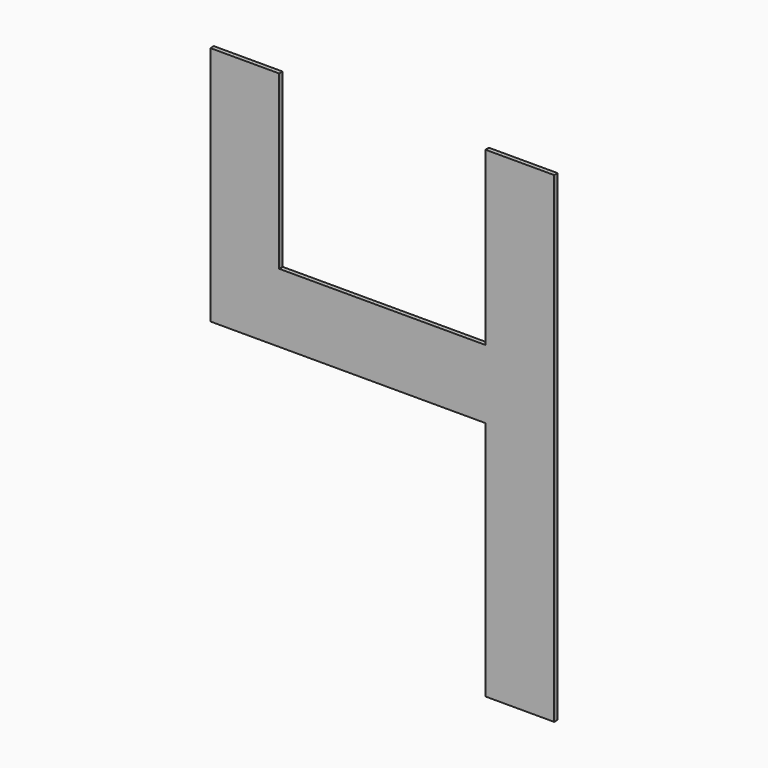
from build123d import *

# Parameters (mm, degrees)
F0_W     = 50.8
F0_H     = 127
F1_DEPTH = 3.175


with BuildPart() as f1:
    # F0 (on Front) → F1 (new body)
    with BuildSketch(Plane.XZ):
        Polygon((-50.8, 0), (0, 0), (0, 355.6), (-50.8, 355.6), (-50.8, 228.6), (-50.8, 177.8), align=None)
        Polygon((-254, 177.8), (-50.8, 177.8), (-50.8, 228.6), (-203.2, 228.6), (-254, 228.6), align=None)
        with Locations((-228.6, 292.1)):
            Rectangle(F0_W, F0_H)
    extrude(amount=-F1_DEPTH)


solid = f1.part
